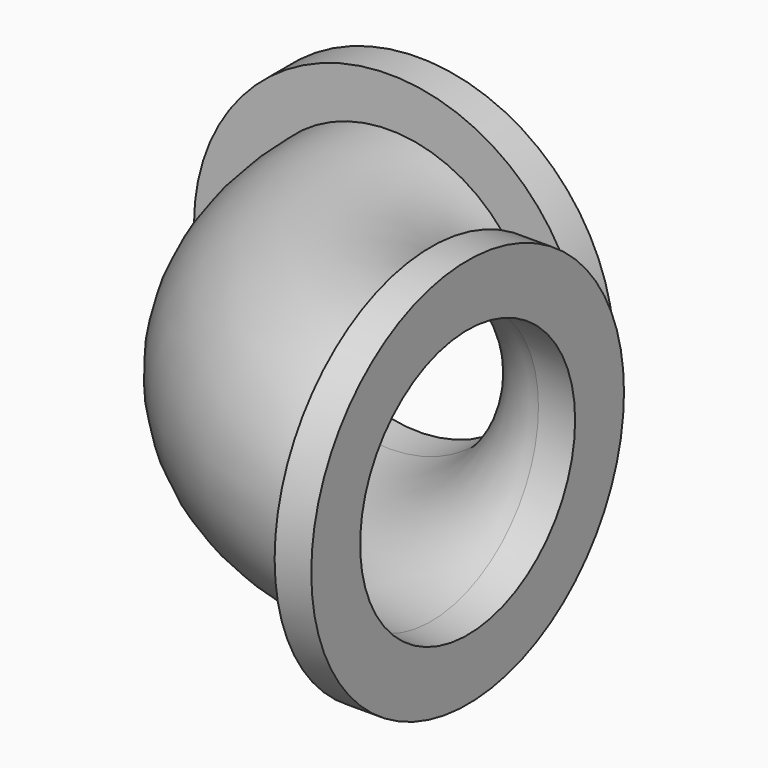
from build123d import *

# Parameters (mm, degrees)
F0_R     = 38.1
F0_R_2   = 34.925
F1_ANGLE = 90
F2_R     = 50.8
F2_R_2   = 34.925
F3_DEPTH = 9.525
F4_R     = 50.8
F4_R_2   = 34.925
F5_DEPTH = 9.525


with BuildPart() as f1:
    # F0 (on Front) → F1 (revolve)
    with BuildSketch(Plane.XZ):
        with Locations((-53.975, 0)):
            Circle(F0_R)
        with Locations((-53.975, 0)):
            Circle(F0_R_2, mode=Mode.SUBTRACT)
    revolve(axis=Axis((0, 0, 27.08186), (0, 0, 1)), revolution_arc=F1_ANGLE)

    # F2 (on face) → F3 (join)
    with BuildSketch(Plane.YZ):
        with Locations((-53.975, 0)):
            Circle(F2_R)
        with Locations((-53.975, 0)):
            Circle(F2_R_2, mode=Mode.SUBTRACT)
    extrude(amount=F3_DEPTH)

    # F4 (on face) → F5 (join)
    with BuildSketch(Plane(origin=(0, 0, 0), x_dir=(-1, 0, 0), z_dir=(0, 1, 0))):
        with Locations((53.975, 0)):
            Circle(F4_R)
        with Locations((53.975, 0)):
            Circle(F4_R_2, mode=Mode.SUBTRACT)
    extrude(amount=F5_DEPTH)


solid = f1.part
